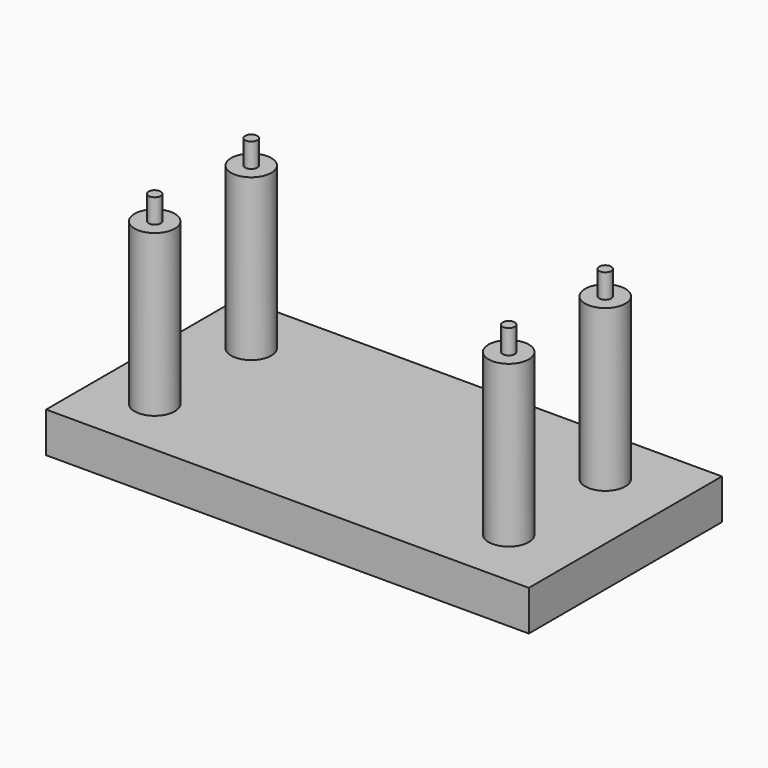
from build123d import *

# Parameters (mm, degrees)
F0_W     = 60
F0_H     = 30
F1_DEPTH = 5
F2_R     = 2.5
F3_DEPTH = 20
F4_R     = 0.75
F5_DEPTH = 23


with BuildPart() as f1:
    # F0 (on Top) → F1 (new body)
    with BuildSketch(Plane.XY):
        with Locations((6.484929, -2.445796)):
            Rectangle(F0_W, F0_H)
    extrude(amount=F1_DEPTH)

    # F2 (on face) → F3 (join)
    with BuildSketch(Plane.XY.offset(5)):
        with Locations((-16.015071, 5.054204)):
            Circle(F2_R)
        with Locations((-16.015071, -9.945796)):
            Circle(F2_R)
        with Locations((27.984929, 5.054204)):
            Circle(F2_R)
        with Locations((27.984929, -9.945796)):
            Circle(F2_R)
    extrude(amount=F3_DEPTH)

    # F4 (on face) → F5 (join)
    with BuildSketch(Plane.XY.offset(5)):
        with Locations((-16.015071, 5.054204)):
            Circle(F4_R)
        with Locations((-16.015071, -9.945796)):
            Circle(F4_R)
        with Locations((27.984929, 5.054204)):
            Circle(F4_R)
        with Locations((27.984929, -9.945796)):
            Circle(F4_R)
    extrude(amount=F5_DEPTH)


solid = f1.part
